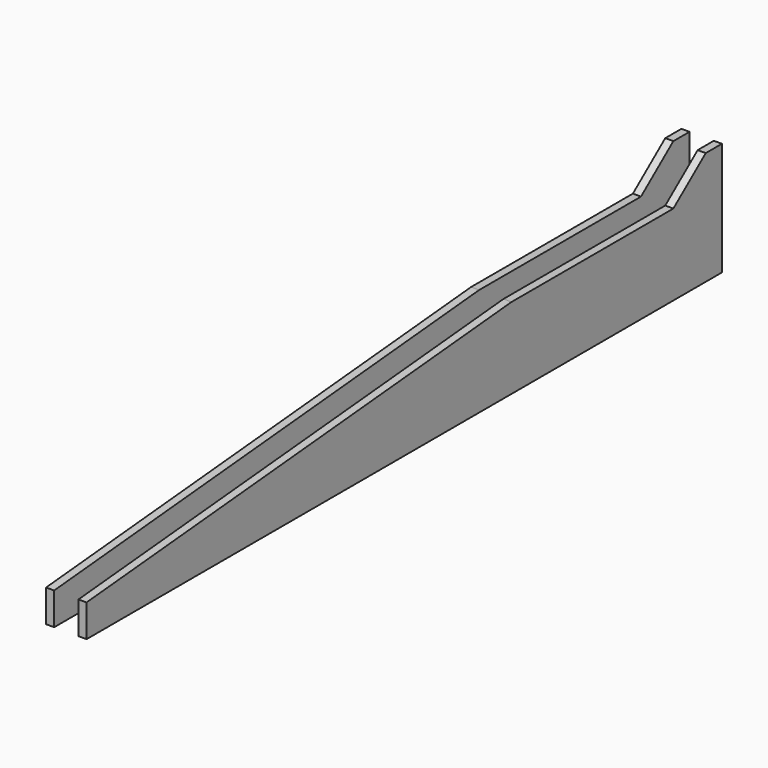
from build123d import *

# Parameters (mm, degrees)
F1_START = 3
F1_DEPTH = 2
F2_DEPTH = 4


with BuildPart() as f1:
    # F0 (on Right) → F1 (new body)
    with BuildSketch(Plane.YZ.offset(F1_START)):
        Polygon((-118.4109357178, -8.3881713183), (-118.4109357178, -16.3881713183), (77.8400642822, -16.3881713183), (77.8400642822, -6.3881713183), (77.8400642822, 3.6118286817), (62.8400642822, 3.6118286817), (12.8400642822, 3.6118286817), align=None)
        Polygon((-114.4109357178, -14.3881713183), (-114.4109357178, -10.0308014794), (12.9313018888, 1.6118286817), (12.9313018888, -14.3881713183), align=None, mode=Mode.SUBTRACT)
        Polygon((62.8400642822, 1.6118286817), (62.8400642822, -6.3881713183), (62.8400642822, -14.3881713183), (16.9313018888, -14.3881713183), (16.9313018888, 1.6118286817), align=None, mode=Mode.SUBTRACT)
        with BuildLine():
            ThreePointArc((66.3400642822, -6.3881713183), (70.3400642822, -2.3881713183), (74.3400642822, -6.3881713183))
            ThreePointArc((74.3400642822, -6.3881713183), (70.3400642822, -10.3881713183), (66.3400642822, -6.3881713183))
        make_face(mode=Mode.SUBTRACT)
        Polygon((12.9313018888, 1.6118286817), (-114.4109357178, -10.0308014794), (-114.4109357178, -14.3881713183), (12.9313018888, -14.3881713183), align=None)
        Polygon((62.8400642822, -14.3881713183), (62.8400642822, -6.3881713183), (62.8400642822, 1.6118286817), (16.9313018888, 1.6118286817), (16.9313018888, -14.3881713183), align=None)
        with BuildLine():
            Line((66.3400642822, -6.3881713183), (74.3400642822, -6.3881713183))
            ThreePointArc((74.3400642822, -6.3881713183), (70.3400642822, -2.3881713183), (66.3400642822, -6.3881713183))
        make_face()
        with BuildLine():
            ThreePointArc((66.3400642822, -6.3881713183), (70.3400642822, -10.3881713183), (74.3400642822, -6.3881713183))
            Line((74.3400642822, -6.3881713183), (66.3400642822, -6.3881713183))
        make_face()
        Polygon((72.8400642822, 11.6118286817), (62.8400642822, 3.6118286817), (77.8400642822, 3.6118286817), (77.8400642822, 11.6118286817), align=None)
    extrude(amount=F1_DEPTH)

    # F0 (on Right) → F2 (cut)
    with BuildSketch(Plane.YZ):
        with BuildLine():
            ThreePointArc((66.3400642822, -6.3881713183), (70.3400642822, -10.3881713183), (74.3400642822, -6.3881713183))
            Line((74.3400642822, -6.3881713183), (66.3400642822, -6.3881713183))
        make_face()
        with BuildLine():
            Line((66.3400642822, -6.3881713183), (74.3400642822, -6.3881713183))
            ThreePointArc((74.3400642822, -6.3881713183), (70.3400642822, -2.3881713183), (66.3400642822, -6.3881713183))
        make_face()
    extrude(amount=F2_DEPTH, mode=Mode.SUBTRACT)


with BuildPart() as f3_1:
    # F3: copy of F1
    add(f1.part.moved(Location((-100, 0, 0))))


with BuildPart() as f5_1:
    # F5: instance of F1
    add(f1.part.mirror(Plane.YZ))


solid = Compound([f1.part, f5_1.part])
